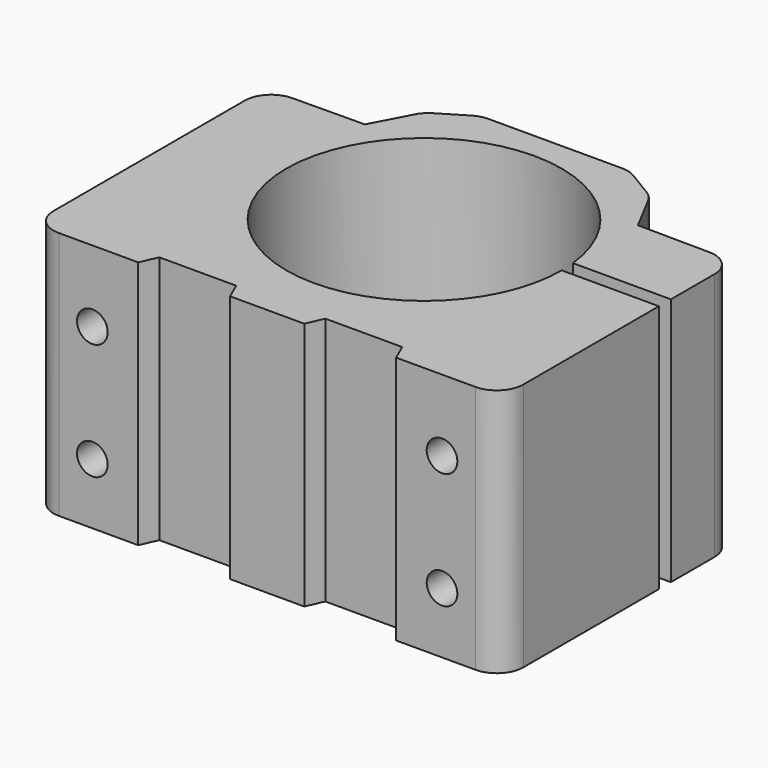
from build123d import *

# Parameters (mm, degrees)
F2_DEPTH = 47
F0_R     = 2.88967587
F3_DEPTH = 69
F4_R     = 5
F5_SIZE  = 5
F6_R     = 5


with BuildPart() as f2:
    # F1 (on Top) → F2 (new body)
    with BuildSketch(Plane.XY):
        with BuildLine():
            Line((-7, 0), (0, 0))
            Line((0, 0), (7, 0))
            Line((7, 0), (8.4177446879, 3.2))
            Line((8.4177446879, 3.2), (22.9177446879, 3.2))
            Line((22.9177446879, 3.2), (24.3354893758, 0))
            Line((24.3354893758, 0), (44.3354893758, 0))
            Line((44.3354893758, 0), (44.3354893758, 37))
            Line((44.3354893758, 37), (26, 37))
            ThreePointArc((26, 37), (-25.9613897172, 35.5835805883), (25.8456735423, 39.8286320269))
            Line((25.8456735423, 39.8286320269), (44.3354893758, 39.8286320269))
            Line((44.3354893758, 39.8286320269), (44.3354893758, 55.0705678761))
            Line((44.3354893758, 55.0705678761), (25.764113456, 55.2520155907))
            Line((25.764113456, 55.2520155907), (19.0504045933, 68))
            Line((19.0504045933, 68), (-19.0504045933, 68))
            Line((-19.0504045933, 68), (-25.764113456, 55.2520155907))
            Line((-25.764113456, 55.2520155907), (-44.3354893758, 55.0705678761))
            Line((-44.3354893758, 55.0705678761), (-44.3354893758, 0))
            Line((-44.3354893758, 0), (-24.3354893758, 0))
            Line((-24.3354893758, 0), (-22.9177446879, 3.2))
            Line((-22.9177446879, 3.2), (-8.4177446879, 3.2))
            Line((-8.4177446879, 3.2), (-7, 0))
        make_face()
    extrude(amount=F2_DEPTH)

    # F0 (on Front) → F3 (cut)
    with BuildSketch(Plane.XZ):
        with Locations((-33, 33.5)):
            Circle(F0_R)
        with Locations((-33, 11.5)):
            Circle(F0_R)
        with Locations((33, 33.5)):
            Circle(F0_R)
        with Locations((33, 11.5)):
            Circle(F0_R)
    extrude(amount=-F3_DEPTH, mode=Mode.SUBTRACT)

    # F4
    f4_edges = [f2.edges().sort_by_distance(p)[0] for p in [
        (-44.335489, 55.070568, 23.5),
        (44.335489, 55.070568, 23.5),
    ]]
    fillet(f4_edges, radius=F4_R)

    # F5
    f5_edges = [f2.edges().sort_by_distance(p)[0] for p in [
        (19.050405, 68, 23.5),
        (-19.050405, 68, 23.5),
    ]]
    chamfer(f5_edges, length=F5_SIZE)

    # F6
    f6_edges = [f2.edges().sort_by_distance(p)[0] for p in [
        (21.38029, 63.576016, 23.5),
        (14.050405, 68, 23.5),
        (-14.050405, 68, 23.5),
        (-21.38029, 63.576016, 23.5),
        (44.335489, 0, 23.5),
        (-44.335489, 0, 23.5),
    ]]
    fillet(f6_edges, radius=F6_R)


solid = f2.part
